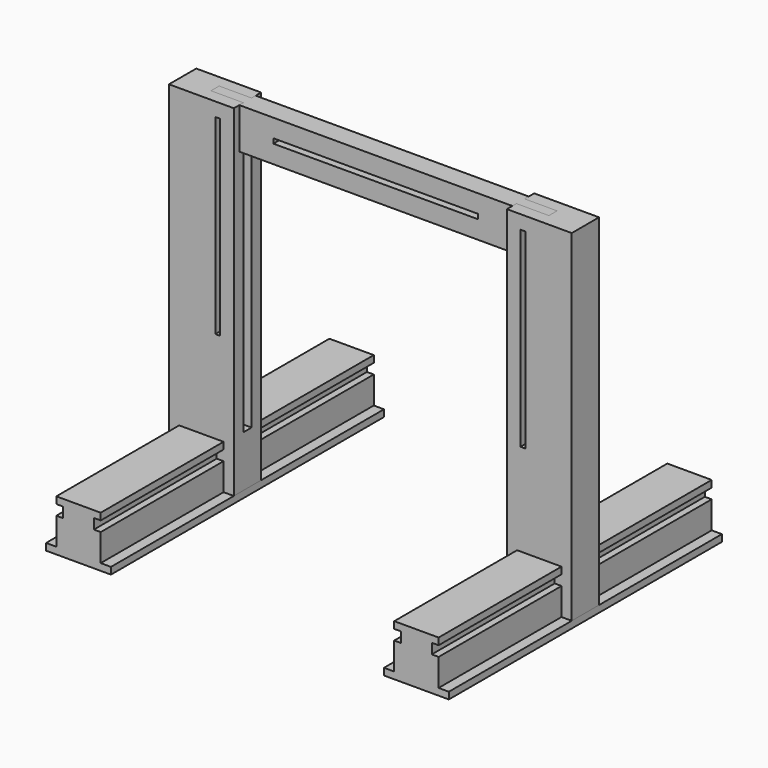
from build123d import *

# Parameters (mm, degrees)
F1_DEPTH  = 250
F3_DEPTH  = 25
F4_W      = 47.5
F4_H      = 7.5
F5_DEPTH  = 425
F7_W      = 7
F7_H      = 280
F8_DEPTH  = 110
F10_DEPTH = 60
F11_R     = 3.5
F12_DEPTH = 56
F14_DEPTH = 46


with BuildPart() as f1:
    # F0 (on Front) → F1 (new body, symmetric)
    with BuildSketch(Plane.XZ):
        Polygon((-200, -10), (-200, 0), (-215, 0), (-280, 0), (-295, 0), (-295, -10), (-280, -10), align=None)
        Polygon((215, 0), (200, 0), (200, -10), (280, -10), (295, -10), (295, 0), (280, 0), align=None)
        Polygon((-280, 0), (-215, 0), (-215, 40), (-225, 40), (-225, 55), (-215, 55), (-215, 65), (-280, 65), (-280, 55), (-270, 55), (-270, 40), (-280, 40), align=None)
        Polygon((215, 40), (215, 0), (280, 0), (280, 40), (270, 40), (270, 55), (280, 55), (280, 65), (215, 65), (215, 55), (225, 55), (225, 40), align=None)
    extrude(amount=F1_DEPTH, both=True)


with BuildPart() as f3:
    # F2 (on Front) → F3 (new body, symmetric)
    with BuildSketch(Plane.XZ):
        Polygon((-215, 0), (-200, 0), (-200, 500), (-295, 500), (-295, 0), (-280, 0), (-280, 40), (-270, 40), (-270, 55), (-280, 55), (-280, 65), (-215, 65), (-215, 55), (-225, 55), (-225, 40), (-215, 40), align=None)
    extrude(amount=F3_DEPTH, both=True)

    # F4 (on face) → F5 (cut)
    with BuildSketch(Plane.XY.offset(500)):
        with Locations((-223.75, -3.75)):
            Rectangle(F4_W, F4_H)
        with Locations((-223.75, 3.75)):
            Rectangle(F4_W, F4_H)
    extrude(amount=-F5_DEPTH, mode=Mode.SUBTRACT)


with BuildPart() as f6_1:
    # F6: instance of F3
    add(f3.part.mirror(Plane.YZ))


with BuildPart() as f8_tool:
    # F7 (on face) → F8 (new body)
    with BuildSketch(Plane.XZ.offset(25)):
        with Locations((-223.5, 340)):
            Rectangle(F7_W, F7_H)
        with Locations((223.5, 340)):
            Rectangle(F7_W, F7_H)
    extrude(amount=-F8_DEPTH)


with BuildPart() as f3_1:
    add(f3.part)

    # F8: cut by f8_tool
    add(f8_tool.part, mode=Mode.SUBTRACT)


with BuildPart() as f6_1_1:
    add(f6_1.part)

    # F8: cut by f8_tool
    add(f8_tool.part, mode=Mode.SUBTRACT)


with BuildPart() as f10:
    # F9 (on face) → F10 (new body)
    with BuildSketch(Plane.XY.offset(500)):
        Polygon((-200, -7.5), (-200, -15), (0, -15), (200, -15), (200, -7.5), (247.5, -7.5), (247.5, 7.5), (200, 7.5), (200, 15), (0, 15), (-200, 15), (-200, 7.5), (-247.5, 7.5), (-247.5, -7.5), align=None)
    extrude(amount=-F10_DEPTH)

    # F11 (on face) → F12 (cut, symmetric)
    with BuildSketch(Plane(origin=(0, 7.5, 0), x_dir=(-1, 0, 0), z_dir=(0, 1, 0))):
        with BuildLine():
            ThreePointArc((-220, 473), (-221.025126, 475.474874), (-223.5, 476.5))
            ThreePointArc((-223.5, 476.5), (-225.974874, 470.525126), (-220, 473))
        make_face()
        with Locations((223.5, 473)):
            Circle(F11_R)
    extrude(amount=F12_DEPTH, both=True, mode=Mode.SUBTRACT)

    # F13 (on face) → F14 (cut)
    with BuildSketch(Plane.XZ.offset(15)):
        Polygon((-150, 473.5), (-150, 470), (-150, 466.5), (0, 466.5), (150, 466.5), (150, 473.5), (0, 473.5), align=None)
    extrude(amount=-F14_DEPTH, mode=Mode.SUBTRACT)


solid = Compound([f1.part, f3_1.part, f6_1_1.part, f10.part])
